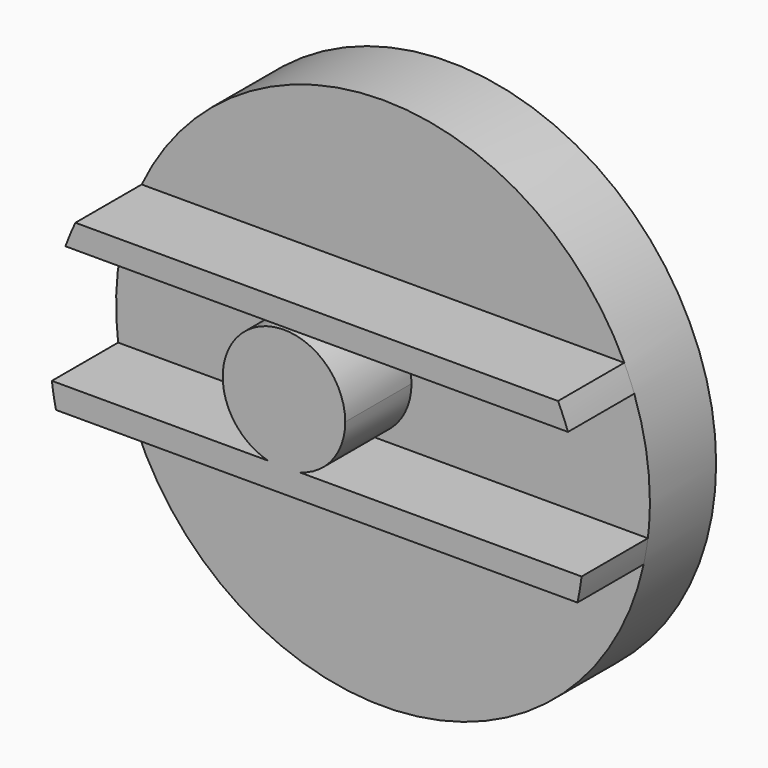
from build123d import *

# Parameters (mm, degrees)
F0_R     = 81.8455494857
F1_DEPTH = 25.4
F3_DEPTH = 25.4


with BuildPart() as f1:
    # F0 (on Front) → F1 (new body)
    with BuildSketch(Plane.XZ):
        with Locations((-4.8047169112, 4.4472948648)):
            Circle(F0_R)
    extrude(amount=F1_DEPTH)

    # F2 (on face) → F3 (join)
    with BuildSketch(Plane.XZ.offset(25.4)):
        with BuildLine():
            ThreePointArc((-10.0211519488, -5.6191812157), (0.0460571122, 1.0869034824), (3.9396910589, 12.539409101))
            ThreePointArc((3.9396910589, 12.539409101), (-26.3024943623, 27.4354549568), (-19.6788255386, -5.6191812157))
            Line((-19.6788255386, -5.6191812157), (-10.0211519488, -5.6191812157))
        make_face()
        with BuildLine():
            Line((-10.0211519488, -5.6191812157), (-19.6788255386, -5.6191812157))
            ThreePointArc((-19.6788255386, -5.6191812157), (-14.8499887437, -6.2502707016), (-10.0211519488, -5.6191812157))
        make_face()
        with BuildLine():
            ThreePointArc((-78.8063776433, 39.4108212817), (-80.4193323461, 35.7701922921), (-81.8533073255, 32.0554220338))
            Line((-81.8533073255, 32.0554220338), (72.2438735032, 32.0554220338))
            ThreePointArc((72.2438735032, 32.0554220338), (70.8098985238, 35.7701922921), (69.1969438209, 39.4108212817))
            Line((69.1969438209, 39.4108212817), (-78.8063776433, 39.4108212817))
        make_face()
        with BuildLine():
            Line((-19.6788255386, -5.6191812157), (-86.0288514399, -5.6191812157))
            ThreePointArc((-86.0288514399, -5.6191812157), (-85.4772635025, -9.3597394685), (-84.7535081589, -13.0708314233))
            Line((-84.7535081589, -13.0708314233), (75.1440743365, -13.0708314233))
            ThreePointArc((75.1440743365, -13.0708314233), (75.8678296802, -9.3597394685), (76.4194176175, -5.6191812157))
            Line((76.4194176175, -5.6191812157), (-10.0211519488, -5.6191812157))
            ThreePointArc((-10.0211519488, -5.6191812157), (-14.8499887437, -6.2502707016), (-19.6788255386, -5.6191812157))
        make_face()
    extrude(amount=F3_DEPTH)


solid = f1.part
